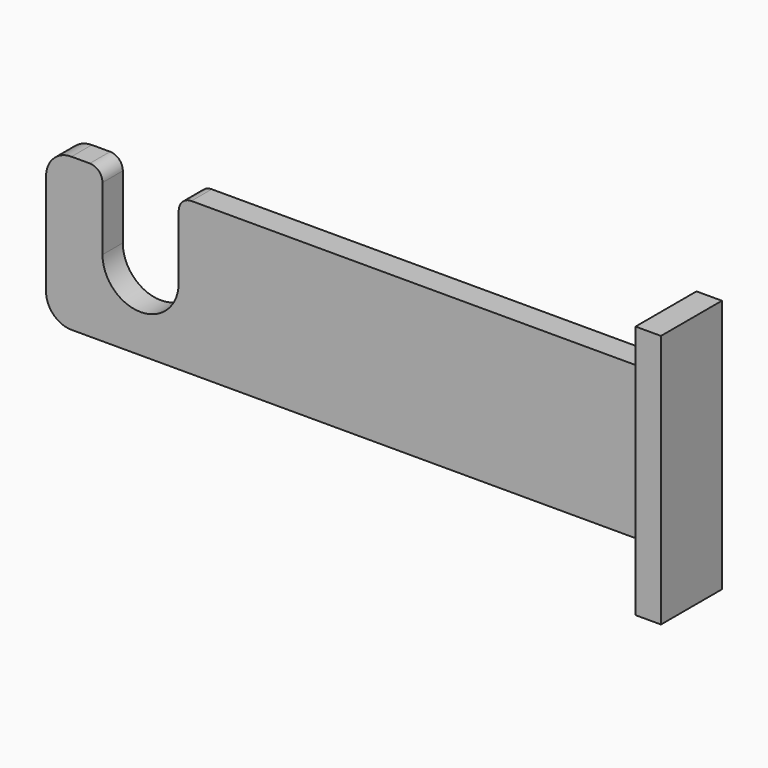
from build123d import *

# Parameters (mm, degrees)
F1_DEPTH = 12.7
F2_W     = 38.1
F2_H     = 127
F3_DEPTH = 12.7


with BuildPart() as f1:
    # F0 (on Front) → F1 (new body)
    with BuildSketch(Plane.XZ):
        with BuildLine():
            Line((-139.7, -38.1), (152.4, -38.1))
            Line((152.4, -38.1), (152.4, 38.1))
            Line((152.4, 38.1), (-79.751387, 38.1))
            ThreePointArc((-79.751387, 38.1), (-84.241515, 36.240128), (-86.101387, 31.75))
            Line((-86.101387, 31.75), (-86.101387, 0))
            ThreePointArc((-86.101387, 0), (-105.151387, -19.05), (-124.201387, 0))
            Line((-124.201387, 0), (-124.201387, 31.75))
            ThreePointArc((-124.201387, 31.75), (-126.061259, 36.240128), (-130.551387, 38.1))
            Line((-130.551387, 38.1), (-139.7, 38.1))
            ThreePointArc((-139.7, 38.1), (-148.680256, 34.380256), (-152.4, 25.4))
            Line((-152.4, 25.4), (-152.4, -25.4))
            ThreePointArc((-152.4, -25.4), (-148.680256, -34.380256), (-139.7, -38.1))
        make_face()
    extrude(amount=F1_DEPTH)

    # F2 (on face) → F3 (join)
    with BuildSketch(Plane.YZ.offset(152.4)):
        with Locations((-6.35, 0)):
            Rectangle(F2_W, F2_H)
    extrude(amount=F3_DEPTH)


solid = f1.part
